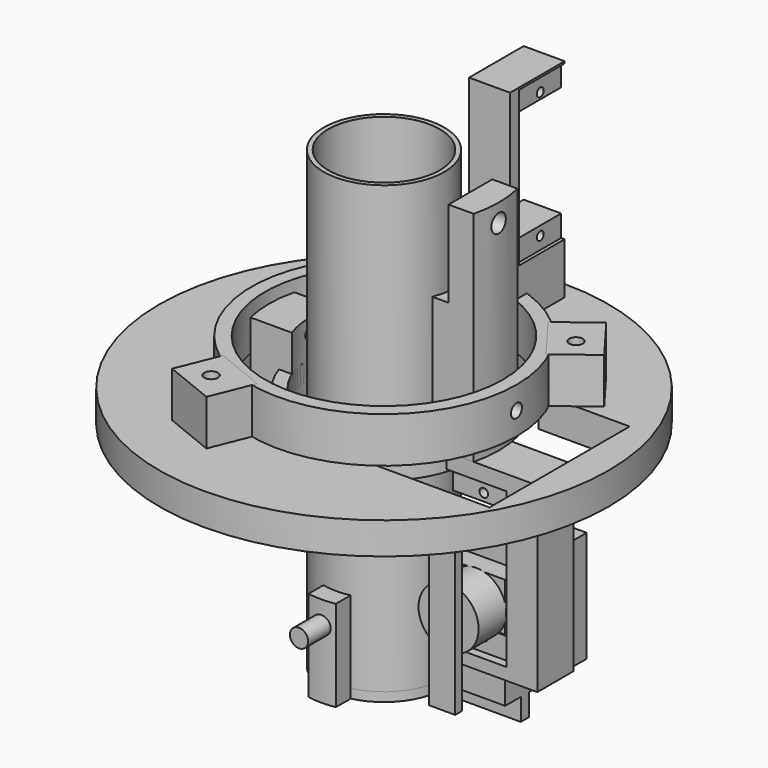
from build123d import *

# Parameters (mm, degrees)
CYLINDER_R                = 12.25
CYLINDER_DEPTH            = 100
CYLINDER001_R             = 13.25
CYLINDER001_DEPTH         = 100
CYLINDER002_R             = 6.6
CYLINDER002_DEPTH         = 7.6
BOX002_W                  = 5.8
BOX002_H                  = 1.8
BOX002_DEPTH              = 34.2
BOX001_W                  = 13.2
BOX001_H                  = 2.3
BOX001_DEPTH              = 34
BOX_W                     = 13.2
BOX_H                     = 22.4
BOX_DEPTH                 = 24.4
FUSION_PLACEMENT_ANGLE    = 180
CYLINDER011_R             = 0.9
CYLINDER011_DEPTH         = 3.1
CYLINDER010_R             = 2
CYLINDER010_DEPTH         = 7.9
BOX006_W                  = 60
BOX006_H                  = 100
BOX006_DEPTH              = 80
BOX007_W                  = 40
BOX007_H                  = 30
BOX007_DEPTH              = 80
BOX005_W                  = 50
BOX005_H                  = 100
BOX005_DEPTH              = 80
CYLINDER009_R             = 12.25
CYLINDER009_DEPTH         = 94.5
CYLINDER008_R             = 17.25
CYLINDER008_DEPTH         = 20
CYLINDER012_R             = 1
CYLINDER012_DEPTH         = 90
BOX004_W                  = 16
BOX004_H                  = 32.5
BOX004_DEPTH              = 100
BOX003_W                  = 16.25
BOX003_H                  = 32.5
BOX003_DEPTH              = 100
CYLINDER005_R             = 12.25
CYLINDER005_DEPTH         = 94.5
CYLINDER004_R             = 16.35
CYLINDER004_DEPTH         = 10
CYLINDER013_R             = 1
CYLINDER013_DEPTH         = 90
CYLINDER007_R             = 16.55
CYLINDER007_DEPTH         = 8
CYLINDER006_R             = 19.25
CYLINDER006_DEPTH         = 8
CYLINDER014_R             = 0.95
CYLINDER014_DEPTH         = 90
CYLINDER015_R             = 0.95
CYLINDER015_DEPTH         = 90
BOX012_W                  = 20
BOX012_H                  = 10
BOX012_DEPTH              = 40
CYLINDER021_R             = 1.5
CYLINDER021_DEPTH         = 90
CYLINDER020_R             = 26.15
CYLINDER020_DEPTH         = 10
CYLINDER019_R             = 29.15
CYLINDER019_DEPTH         = 10
FUSION014_PLACEMENT_ANGLE = 90
BOX016_W                  = 9
BOX016_H                  = 15
BOX016_DEPTH              = 45.7
FUSION015_PLACEMENT_ANGLE = 90
BOX017_W                  = 10
BOX017_H                  = 16
BOX017_DEPTH              = 21
CYLINDER022_R             = 0.1
CYLINDER022_DEPTH         = 90
BOX015_W                  = 50
BOX015_H                  = 100
BOX015_DEPTH              = 100
BOX014_W                  = 100
BOX014_H                  = 100
BOX014_DEPTH              = 150
BOX013_W                  = 100
BOX013_H                  = 100
BOX013_DEPTH              = 150
CYLINDER018_R             = 1
CYLINDER018_DEPTH         = 90
CYLINDER017_R             = 16.55
CYLINDER017_DEPTH         = 48
CYLINDER016_R             = 25.25
CYLINDER016_DEPTH         = 48
CYLINDER027_R             = 1.5
CYLINDER027_DEPTH         = 100
CYLINDER026_R             = 1.5
CYLINDER026_DEPTH         = 100
CYLINDER025_R             = 1.5
CYLINDER025_DEPTH         = 100
BOX019_W                  = 10
BOX019_H                  = 12
BOX019_DEPTH              = 10
BOX019_PLACEMENT_ANGLE    = 144
BOX020_W                  = 10
BOX020_H                  = 12
BOX020_DEPTH              = 10
BOX020_PLACEMENT_ANGLE    = 112
BOX018_W                  = 10
BOX018_H                  = 12
BOX018_DEPTH              = 10
BOX018_PLACEMENT_ANGLE    = 37
BOX021_W                  = 28
BOX021_H                  = 38.5
BOX021_DEPTH              = 100
CYLINDER024_R             = 26.6
CYLINDER024_DEPTH         = 7
CYLINDER023_R             = 49.4
CYLINDER023_DEPTH         = 7
CYLINDER029_R             = 13.25
CYLINDER029_DEPTH         = 2


with BuildPart() as estes24mm:
    # Cylinder → Cylinder (new body)
    with BuildSketch(Plane.XY):
        Circle(CYLINDER_R)
    extrude(amount=CYLINDER_DEPTH)


with BuildPart() as a_engineholdersubtractedengine:
    # Cylinder001 → Cylinder001 (new body)
    with BuildSketch(Plane.XY):
        Circle(CYLINDER001_R)
    extrude(amount=CYLINDER001_DEPTH)

    # Cut: cut Estes24mm
    add(estes24mm.part, mode=Mode.SUBTRACT)


with BuildPart() as cylinder:
    # Cylinder002 → Cylinder002 (new body)
    with BuildSketch(Plane(origin=(6.35, 0, 6.35), x_dir=(1, 0, 0), z_dir=(0, -1, 0))):
        Circle(CYLINDER002_R)
    extrude(amount=CYLINDER002_DEPTH)


with BuildPart() as rotor:
    # Box002 → Box002 (new body)
    with BuildSketch(Plane(origin=(3.45, -9.4, -10.75), x_dir=(1, 0, 0), z_dir=(0, 0, 1))):
        with Locations((2.9, 0.9)):
            Rectangle(BOX002_W, BOX002_H)
    extrude(amount=BOX002_DEPTH)


with BuildPart() as cube001:
    # Box001 → Box001 (new body)
    with BuildSketch(Plane(origin=(0, 4.3, -4.75), x_dir=(1, 0, 0), z_dir=(0, 0, 1))):
        with Locations((6.6, 1.15)):
            Rectangle(BOX001_W, BOX001_H)
    extrude(amount=BOX001_DEPTH)


with BuildPart() as cube:
    # Box → Box (new body)
    with BuildSketch(Plane.XY):
        with Locations((6.6, 11.2)):
            Rectangle(BOX_W, BOX_H)
    extrude(amount=BOX_DEPTH)


with BuildPart() as servo:
    # Fusion base: copy of Cube
    add(cube.part)

    # Fusion: union Cylinder, Rotor, Cube001
    add(cylinder.part)
    add(rotor.part)
    add(cube001.part)


with BuildPart() as servo_1:
    # Fusion placement: moved
    add(servo.part.moved(Location((29.7, -3.85, 28))).rotate(Axis((29.7, -3.85, 28), (0, 1, 0)), FUSION_PLACEMENT_ANGLE))


with BuildPart() as smallscrewcylinder:
    # Cylinder011 → Cylinder011 (new body)
    with BuildSketch(Plane.XZ):
        Circle(CYLINDER011_R)
    extrude(amount=CYLINDER011_DEPTH)


with BuildPart() as bighead:
    # Cylinder010 → Cylinder010 (new body)
    with BuildSketch(Plane.XZ.offset(3.1)):
        Circle(CYLINDER010_R)
    extrude(amount=CYLINDER010_DEPTH)


with BuildPart() as linkagestopper:
    # Fusion006 base: copy of BigHead
    add(bighead.part)

    # Fusion006: union SmallScrewCylinder
    add(smallscrewcylinder.part)


with BuildPart() as linkagestopper_1:
    # Fusion006 placement: moved
    add(linkagestopper.part.moved(Location((0, -12.35, 15))))


with BuildPart() as linkagestopper001:
    # Fusion007 base: copy of BigHead
    add(bighead.part)

    # Fusion007: union SmallScrewCylinder
    add(smallscrewcylinder.part)


with BuildPart() as linkagestopper001_1:
    # Fusion007 placement: moved
    add(linkagestopper001.part.moved(Location((0, -12.35, 15))))


with BuildPart() as cube005:
    # Box006 → Box006 (new body)
    with BuildSketch(Plane(origin=(-63, -30, -5), x_dir=(1, 0, 0), z_dir=(0, 0, 1))):
        with Locations((30, 50)):
            Rectangle(BOX006_W, BOX006_H)
    extrude(amount=BOX006_DEPTH)


with BuildPart() as cube006:
    # Box007 → Box007 (new body)
    with BuildSketch(Plane(origin=(-20, 0, -5), x_dir=(1, 0, 0), z_dir=(0, 0, 1))):
        with Locations((20, 15)):
            Rectangle(BOX007_W, BOX007_H)
    extrude(amount=BOX007_DEPTH)


with BuildPart() as subtractioncubes:
    # Box005 → Box005 (new body)
    with BuildSketch(Plane(origin=(3, -30, -5), x_dir=(1, 0, 0), z_dir=(0, 0, 1))):
        with Locations((25, 50)):
            Rectangle(BOX005_W, BOX005_H)
    extrude(amount=BOX005_DEPTH)

    # Fusion002: union Cube005, Cube006
    add(cube005.part)
    add(cube006.part)


with BuildPart() as estes24mm002:
    # Cylinder009 → Cylinder009 (new body)
    with BuildSketch(Plane.XY):
        Circle(CYLINDER009_R)
    extrude(amount=CYLINDER009_DEPTH)


with BuildPart() as obj1:
    # Cylinder008 → Cylinder008 (new body)
    with BuildSketch(Plane.XY):
        Circle(CYLINDER008_R)
    extrude(amount=CYLINDER008_DEPTH)

    # Cut004: cut Estes24mm002
    add(estes24mm002.part, mode=Mode.SUBTRACT)

    # Cut005: cut SubtractionCubes
    add(subtractioncubes.part, mode=Mode.SUBTRACT)

    # Cut008: cut LinkageStopper001
    add(linkagestopper001_1.part, mode=Mode.SUBTRACT)


with BuildPart() as obj2:
    # Cylinder012 → Cylinder012 (new body)
    with BuildSketch(Plane(origin=(0, 45, 50), x_dir=(1, 0, 0), z_dir=(0, -1, 0))):
        Circle(CYLINDER012_R)
    extrude(amount=CYLINDER012_DEPTH)


with BuildPart() as cube003:
    # Box004 → Box004 (new body)
    with BuildSketch(Plane(origin=(-18.75, -16.25, 0), x_dir=(1, 0, 0), z_dir=(0, 0, 1))):
        with Locations((8, 16.25)):
            Rectangle(BOX004_W, BOX004_H)
    extrude(amount=BOX004_DEPTH)


with BuildPart() as obj3:
    # Box003 → Box003 (new body)
    with BuildSketch(Plane(origin=(2.75, -16.25, 0), x_dir=(1, 0, 0), z_dir=(0, 0, 1))):
        with Locations((8.125, 16.25)):
            Rectangle(BOX003_W, BOX003_H)
    extrude(amount=BOX003_DEPTH)

    # Fusion001: union Cube003
    add(cube003.part)


with BuildPart() as estes24mm001:
    # Cylinder005 → Cylinder005 (new body)
    with BuildSketch(Plane.XY):
        Circle(CYLINDER005_R)
    extrude(amount=CYLINDER005_DEPTH)


with BuildPart() as obj4:
    # Cylinder004 → Cylinder004 (new body)
    with BuildSketch(Plane.XY.offset(45)):
        Circle(CYLINDER004_R)
    extrude(amount=CYLINDER004_DEPTH)

    # Cut001: cut Estes24mm001
    add(estes24mm001.part, mode=Mode.SUBTRACT)

    # Cut002: cut obj3
    add(obj3.part, mode=Mode.SUBTRACT)

    # Cut009: cut obj2
    add(obj2.part, mode=Mode.SUBTRACT)


with BuildPart() as obj5:
    # Cylinder013 → Cylinder013 (new body)
    with BuildSketch(Plane(origin=(0, 45, 50), x_dir=(1, 0, 0), z_dir=(0, -1, 0))):
        Circle(CYLINDER013_R)
    extrude(amount=CYLINDER013_DEPTH)


with BuildPart() as innercylinderbracket:
    # Cylinder007 → Cylinder007 (new body)
    with BuildSketch(Plane.XY):
        Circle(CYLINDER007_R)
    extrude(amount=CYLINDER007_DEPTH)


with BuildPart() as obj6:
    # Cylinder006 → Cylinder006 (new body)
    with BuildSketch(Plane.XY):
        Circle(CYLINDER006_R)
    extrude(amount=CYLINDER006_DEPTH)

    # Cut003: cut InnerCylinderBracket
    add(innercylinderbracket.part, mode=Mode.SUBTRACT)


with BuildPart() as obj6_1:
    # Cut003 placement: moved
    add(obj6.part.moved(Location((0, 0, 46))))

    # Cut010: cut obj5
    add(obj5.part, mode=Mode.SUBTRACT)


with BuildPart() as obj7:
    # Cylinder014 → Cylinder014 (new body)
    with BuildSketch(Plane(origin=(23.25, 47, 13.5), x_dir=(1, 0, 0), z_dir=(0, -1, 0))):
        Circle(CYLINDER014_R)
    extrude(amount=CYLINDER014_DEPTH)


with BuildPart() as obj8:
    # Cylinder015 → Cylinder015 (new body)
    with BuildSketch(Plane(origin=(23.25, 47, 41.3), x_dir=(1, 0, 0), z_dir=(0, -1, 0))):
        Circle(CYLINDER015_R)
    extrude(amount=CYLINDER015_DEPTH)


with BuildPart() as servoscrewremovalcylinders:
    # Fusion009 base: copy of obj8
    add(obj8.part)

    # Fusion009: union obj7
    add(obj7.part)


with BuildPart() as servoscrewremovalcylinders_1:
    # Fusion009 placement: moved
    add(servoscrewremovalcylinders.part.moved(Location((2, 0, 2.2))))


with BuildPart() as servo001:
    # Fusion008 base: copy of Cube
    add(cube.part)

    # Fusion008: union Cylinder, Rotor, Cube001
    add(cylinder.part)
    add(rotor.part)
    add(cube001.part)


with BuildPart() as servo001_1:
    # Fusion008 placement: moved
    add(servo001.part.moved(Location((18.5, -10.75, 17.4))))


with BuildPart() as obj9:
    # Box012 → Box012 (new body)
    with BuildSketch(Plane(origin=(18.5, -6, 10), x_dir=(1, 0, 0), z_dir=(0, 0, 1))):
        with Locations((10, 5)):
            Rectangle(BOX012_W, BOX012_H)
    extrude(amount=BOX012_DEPTH)

    # Cut011: cut Servo001
    add(servo001_1.part, mode=Mode.SUBTRACT)

    # Cut012: cut ServoScrewRemovalCylinders
    add(servoscrewremovalcylinders_1.part, mode=Mode.SUBTRACT)


with BuildPart() as cylinder021:
    # Cylinder021 → Cylinder021 (new body)
    with BuildSketch(Plane(origin=(-45, 0, 59), x_dir=(0, 0, -1), z_dir=(1, 0, 0))):
        Circle(CYLINDER021_R)
    extrude(amount=CYLINDER021_DEPTH)


with BuildPart() as bracket1inner:
    # Cylinder020 → Cylinder020 (new body)
    with BuildSketch(Plane.XY):
        Circle(CYLINDER020_R)
    extrude(amount=CYLINDER020_DEPTH)


with BuildPart() as obj10:
    # Cylinder019 → Cylinder019 (new body)
    with BuildSketch(Plane.XY):
        Circle(CYLINDER019_R)
    extrude(amount=CYLINDER019_DEPTH)

    # Cut016: cut Bracket1Inner
    add(bracket1inner.part, mode=Mode.SUBTRACT)


with BuildPart() as obj10_1:
    # Cut016 placement: moved
    add(obj10.part.moved(Location((0, 0, 54))))

    # Cut017: cut Cylinder021
    add(cylinder021.part, mode=Mode.SUBTRACT)


with BuildPart() as servoscrewremovalcylinders001:
    # Fusion012 base: copy of obj8
    add(obj8.part)

    # Fusion012: union obj7
    add(obj7.part)


with BuildPart() as servoscrewremovalcylinders001_1:
    # Fusion012 placement: moved
    add(servoscrewremovalcylinders001.part.moved(Location((0, 0, 0.5))))


with BuildPart() as obj11:
    # Fusion013 base: copy of Cube
    add(cube.part)

    # Fusion013: union Cylinder, Rotor, Cube001
    add(cylinder.part)
    add(rotor.part)
    add(cube001.part)


with BuildPart() as obj11_1:
    # Fusion013 placement: moved
    add(obj11.part.moved(Location((16.5, -3.85, 16))))

    # Fusion014: union ServoScrewRemovalCylinders001
    add(servoscrewremovalcylinders001_1.part)


with BuildPart() as obj11_2:
    # Fusion014 placement: moved
    add(obj11_1.part.moved(Location((11.3, 9, 59))).rotate(Axis((11.3, 9, 59), (0, 0, 1)), FUSION014_PLACEMENT_ANGLE))


with BuildPart() as c_servo2holder:
    # Box016 → Box016 (new body)
    with BuildSketch(Plane(origin=(0.3, 23, 59), x_dir=(1, 0, 0), z_dir=(0, 0, 1))):
        with Locations((4.5, 7.5)):
            Rectangle(BOX016_W, BOX016_H)
    extrude(amount=BOX016_DEPTH)

    # Cut020: cut obj11
    add(obj11_2.part, mode=Mode.SUBTRACT)


with BuildPart() as linkagestopper002:
    # Fusion015 base: copy of BigHead
    add(bighead.part)

    # Fusion015: union SmallScrewCylinder
    add(smallscrewcylinder.part)


with BuildPart() as linkagestopper002_1:
    # Fusion015 placement: moved
    add(linkagestopper002.part.moved(Location((19, 0, 94))).rotate(Axis((19, 0, 94), (0, 0, 1)), FUSION015_PLACEMENT_ANGLE))


with BuildPart() as obj12:
    # Box017 → Box017 (new body)
    with BuildSketch(Plane(origin=(9, -8, 79), x_dir=(1, 0, 0), z_dir=(0, 0, 1))):
        with Locations((5, 8)):
            Rectangle(BOX017_W, BOX017_H)
    extrude(amount=BOX017_DEPTH)


with BuildPart() as obj13:
    # Cylinder022 → Cylinder022 (new body)
    with BuildSketch(Plane(origin=(-45, 0, 94), x_dir=(0, 0, -1), z_dir=(1, 0, 0))):
        Circle(CYLINDER022_R)
    extrude(amount=CYLINDER022_DEPTH)


with BuildPart() as subtractioncubebacklongbracket:
    # Box015 → Box015 (new body)
    with BuildSketch(Plane(origin=(-50, -50, 62), x_dir=(1, 0, 0), z_dir=(0, 0, 1))):
        with Locations((25, 50)):
            Rectangle(BOX015_W, BOX015_H)
    extrude(amount=BOX015_DEPTH)


with BuildPart() as cube008:
    # Box014 → Box014 (new body)
    with BuildSketch(Plane(origin=(-50, -6, 0), x_dir=(0, -1, 0), z_dir=(0, 0, 1))):
        with Locations((50, 50)):
            Rectangle(BOX014_W, BOX014_H)
    extrude(amount=BOX014_DEPTH)


with BuildPart() as obj14:
    # Box013 → Box013 (new body)
    with BuildSketch(Plane(origin=(-50, 6, 0), x_dir=(1, 0, 0), z_dir=(0, 0, 1))):
        with Locations((50, 50)):
            Rectangle(BOX013_W, BOX013_H)
    extrude(amount=BOX013_DEPTH)

    # Fusion010: union Cube008
    add(cube008.part)


with BuildPart() as obj15:
    # Cylinder018 → Cylinder018 (new body)
    with BuildSketch(Plane(origin=(-45, 0, 59), x_dir=(0, 0, -1), z_dir=(1, 0, 0))):
        Circle(CYLINDER018_R)
    extrude(amount=CYLINDER018_DEPTH)


with BuildPart() as innercylinderbracket001:
    # Cylinder017 → Cylinder017 (new body)
    with BuildSketch(Plane.XY):
        Circle(CYLINDER017_R)
    extrude(amount=CYLINDER017_DEPTH)


with BuildPart() as cut022:
    # Cylinder016 → Cylinder016 (new body)
    with BuildSketch(Plane.XY):
        Circle(CYLINDER016_R)
    extrude(amount=CYLINDER016_DEPTH)

    # Cut013: cut InnerCylinderBracket001
    add(innercylinderbracket001.part, mode=Mode.SUBTRACT)


with BuildPart() as cut022_1:
    # Cut013 placement: moved
    add(cut022.part.moved(Location((0, 0, 50))))

    # Cut014: cut obj15
    add(obj15.part, mode=Mode.SUBTRACT)

    # Cut015: cut obj14
    add(obj14.part, mode=Mode.SUBTRACT)

    # Cut018: cut SubtractionCubeBackLongBracket
    add(subtractioncubebacklongbracket.part, mode=Mode.SUBTRACT)

    # Cut019: cut obj13
    add(obj13.part, mode=Mode.SUBTRACT)

    # Cut021: cut obj12
    add(obj12.part, mode=Mode.SUBTRACT)

    # Cut022: cut LinkageStopper002
    add(linkagestopper002_1.part, mode=Mode.SUBTRACT)


with BuildPart() as mountscrew003:
    # Cylinder027 → Cylinder027 (new body)
    with BuildSketch(Plane(origin=(-14, -30, 0), x_dir=(1, 0, 0), z_dir=(0, 0, 1))):
        Circle(CYLINDER027_R)
    extrude(amount=CYLINDER027_DEPTH)


with BuildPart() as mountscrew002:
    # Cylinder026 → Cylinder026 (new body)
    with BuildSketch(Plane(origin=(-25, 21, 0), x_dir=(1, 0, 0), z_dir=(0, 0, 1))):
        Circle(CYLINDER026_R)
    extrude(amount=CYLINDER026_DEPTH)


with BuildPart() as mountscrew1:
    # Cylinder025 → Cylinder025 (new body)
    with BuildSketch(Plane(origin=(27, 19, 0), x_dir=(1, 0, 0), z_dir=(0, 0, 1))):
        Circle(CYLINDER025_R)
    extrude(amount=CYLINDER025_DEPTH)


with BuildPart() as mountscrews:
    # Fusion016 base: copy of MountScrew1
    add(mountscrew1.part)

    # Fusion016: union MountScrew003, MountScrew002
    add(mountscrew003.part)
    add(mountscrew002.part)


with BuildPart() as screwboxblock002:
    # Box019 → Box019 (new body)
    with BuildSketch(Plane.XY):
        with Locations((5, 6)):
            Rectangle(BOX019_W, BOX019_H)
    extrude(amount=BOX019_DEPTH)


with BuildPart() as screwboxblock002_1:
    # Box019 placement: moved
    add(screwboxblock002.part.moved(Location((-17, 23, 54))).rotate(Axis((-17, 23, 54), (0, 0, 1)), BOX019_PLACEMENT_ANGLE))


with BuildPart() as screwboxblock003:
    # Box020 → Box020 (new body)
    with BuildSketch(Plane.XY):
        with Locations((5, 6)):
            Rectangle(BOX020_W, BOX020_H)
    extrude(amount=BOX020_DEPTH)


with BuildPart() as screwboxblock003_1:
    # Box020 placement: moved
    add(screwboxblock003.part.moved(Location((-17, -23, 54))).rotate(Axis((-17, -23, 54), (0, 0, -1)), BOX020_PLACEMENT_ANGLE))


with BuildPart() as obj16:
    # Box018 → Box018 (new body)
    with BuildSketch(Plane.XY):
        with Locations((5, 6)):
            Rectangle(BOX018_W, BOX018_H)
    extrude(amount=BOX018_DEPTH)


with BuildPart() as obj16_1:
    # Box018 placement: moved
    add(obj16.part.moved(Location((26, 12, 54))).rotate(Axis((26, 12, 54), (0, 0, 1)), BOX018_PLACEMENT_ANGLE))

    # Fusion017: union ScrewBoxBlock002, ScrewBoxBlock003
    add(screwboxblock002_1.part)
    add(screwboxblock003_1.part)

    # Cut024: cut MountScrews
    add(mountscrews.part, mode=Mode.SUBTRACT)


with BuildPart() as obj17:
    # Box021 → Box021 (new body)
    with BuildSketch(Plane(origin=(14, -23.5, 0), x_dir=(1, 0, 0), z_dir=(0, 0, 1))):
        with Locations((14, 19.25)):
            Rectangle(BOX021_W, BOX021_H)
    extrude(amount=BOX021_DEPTH)


with BuildPart() as servocutoutandscrewholes:
    # Fusion018 base: copy of MountScrew1
    add(mountscrew1.part)

    # Fusion018: union MountScrew003, MountScrew002
    add(mountscrew003.part)
    add(mountscrew002.part)

    # Fusion019: union obj17
    add(obj17.part)


with BuildPart() as fourinchinner:
    # Cylinder024 → Cylinder024 (new body)
    with BuildSketch(Plane.XY):
        Circle(CYLINDER024_R)
    extrude(amount=CYLINDER024_DEPTH)


with BuildPart() as d_tubeholder:
    # Cylinder023 → Cylinder023 (new body)
    with BuildSketch(Plane.XY):
        Circle(CYLINDER023_R)
    extrude(amount=CYLINDER023_DEPTH)

    # Cut023: cut FourInchInner
    add(fourinchinner.part, mode=Mode.SUBTRACT)


with BuildPart() as d_tubeholder_1:
    # Cut023 placement: moved
    add(d_tubeholder.part.moved(Location((0, 0, 47))))

    # Cut025: cut ServoCutoutAndScrewHoles
    add(servocutoutandscrewholes.part, mode=Mode.SUBTRACT)


with BuildPart() as a_capend:
    # Cylinder029 → Cylinder029 (new body)
    with BuildSketch(Plane.XY):
        Circle(CYLINDER029_R)
    extrude(amount=CYLINDER029_DEPTH)


solid = Compound([a_engineholdersubtractedengine.part, servo_1.part, linkagestopper_1.part, obj1.part, obj4.part, obj6_1.part, obj9.part, obj10_1.part, c_servo2holder.part, cut022_1.part, obj16_1.part, d_tubeholder_1.part, a_capend.part])
